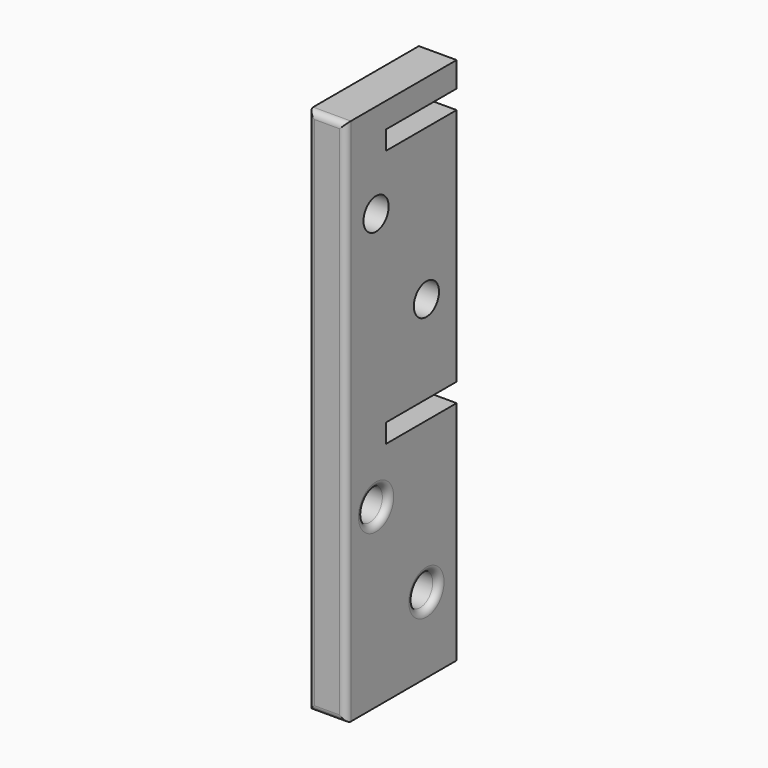
from build123d import *

# Parameters (mm, degrees)
F0_W          = 38.1
F0_H          = 609.6
F1_DEPTH      = 69.85
F1_DEPTH_BACK = 69.85
F2_W          = 88.9
F2_H          = 19.05
F3_DEPTH      = 38.1
F5_R          = 15.875
F6_DEPTH      = 50.8
F7_W          = 88.9
F7_H          = 19.05
F7_W_2        = 139.7
F7_H_2        = 76.2
F8_DEPTH      = 38.1
F9_R          = 6.35
F11_DEPTH     = 3.175
F12_R         = 6.35


with BuildPart() as f1:
    # F0 (on Front) → F1 (new body, two sides)
    with BuildSketch(Plane.XZ) as f1_sk:
        Rectangle(F0_W, F0_H)
    extrude(amount=F1_DEPTH)
    extrude(f1_sk.sketch, amount=-F1_DEPTH_BACK)

    # F2 (on face) → F3 (cut)
    with BuildSketch(Plane(origin=(-19.05, 0, 0), x_dir=(0, -1, 0), z_dir=(-1, 0, 0))):
        with Locations((-25.4, 269.875)):
            Rectangle(F2_W, F2_H)
    extrude(amount=-F3_DEPTH, mode=Mode.SUBTRACT)

    # F5 (on face) → F6 (cut)
    with BuildSketch(Plane(origin=(-19.05, 0, 0), x_dir=(0, -1, 0), z_dir=(-1, 0, 0))):
        with Locations((31.75, 209.55)):
            Circle(F5_R)
        with Locations((-31.75, 107.95)):
            Circle(F5_R)
        with Locations((31.75, -50.8)):
            Circle(F5_R)
        with Locations((-31.75, -152.4)):
            Circle(F5_R)
    extrude(amount=-F6_DEPTH, mode=Mode.SUBTRACT)

    # F7 (on face) → F8 (cut, through all)
    with BuildSketch(Plane.YZ.offset(19.05)):
        with Locations((25.4, 9.525)):
            Rectangle(F7_W, F7_H)
        with Locations((0, -266.7)):
            Rectangle(F7_W_2, F7_H_2)
    extrude(amount=-F8_DEPTH, mode=Mode.SUBTRACT)

    # F9
    f9_edges = [f1.edges().sort_by_distance(p)[0] for p in [
        (-19.05, -15.875, 209.55),
        (-19.05, 47.625, 107.95),
        (19.05, -15.875, -50.8),
        (19.05, 47.625, -152.4),
    ]]
    fillet(f9_edges, radius=F9_R)

    # F10 (on face) → F11 (cut)
    with BuildSketch(Plane(origin=(0, 69.85, 0), x_dir=(-1, 0, 0), z_dir=(0, 1, 0))):
        with BuildLine():
            ThreePointArc((6.5330743462, 224.4064063608), (-1.0936353663, 230.8472931087), (-6.1669256538, 222.25))
            Line((-6.1669256538, 222.25), (-6.1669256538, 190.5))
            ThreePointArc((-6.1669256538, 190.5), (0.1830743462, 184.15), (6.5330743462, 190.5))
            Line((6.5330743462, 190.5), (6.5330743462, 224.4064063608))
        make_face()
        with BuildLine():
            ThreePointArc((6.7926369745, -50.8), (1.5520159153, -44.3027542125), (-5.9073630255, -48.0492162406))
            Line((-5.9073630255, -48.0492162406), (-5.9073630255, -79.7992162406))
            ThreePointArc((-5.9073630255, -79.7992162406), (1.733975859, -83.0137515295), (6.7926369745, -76.4461610438))
            Line((6.7926369745, -76.4461610438), (6.7926369745, -50.8))
        make_face()
    extrude(amount=-F11_DEPTH, mode=Mode.SUBTRACT)

    # F12
    f12_edges = [f1.edges().sort_by_distance(p)[0] for p in [
        (19.05, -69.85, 38.1),
        (-19.05, -69.85, 38.1),
        (0, -69.85, 304.8),
        (0, -69.85, -228.6),
    ]]
    fillet(f12_edges, radius=F12_R)


solid = f1.part
